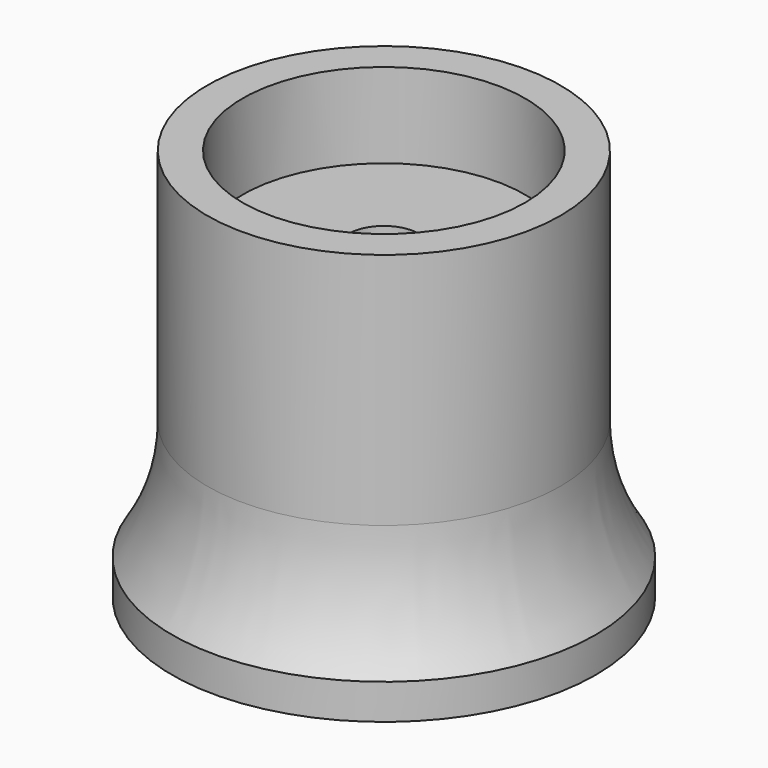
from build123d import *

# Parameters (mm, degrees)
F2_R     = 12.7
F3_DEPTH = 7.62


with BuildPart() as f1:
    # F0 (on Front) → F1 (revolve)
    with BuildSketch(Plane.XZ):
        with BuildLine():
            Line((15.875, 35.306), (3.175, 35.306))
            Line((3.175, 35.306), (3.175, 0))
            Line((3.175, 0), (19.05, 0))
            Line((19.05, 0), (19.05, 3.175))
            ThreePointArc((19.05, 3.175), (16.685437, 8.304086), (15.875, 13.893529))
            Line((15.875, 13.893529), (15.875, 35.306))
        make_face()
    revolve(axis=Axis((0, 0, 26.439369), (0, 0, 1)))

    # F2 (on face) → F3 (cut)
    with BuildSketch(Plane.XY.offset(35.306)):
        Circle(F2_R)
    extrude(amount=-F3_DEPTH, mode=Mode.SUBTRACT)


solid = f1.part
